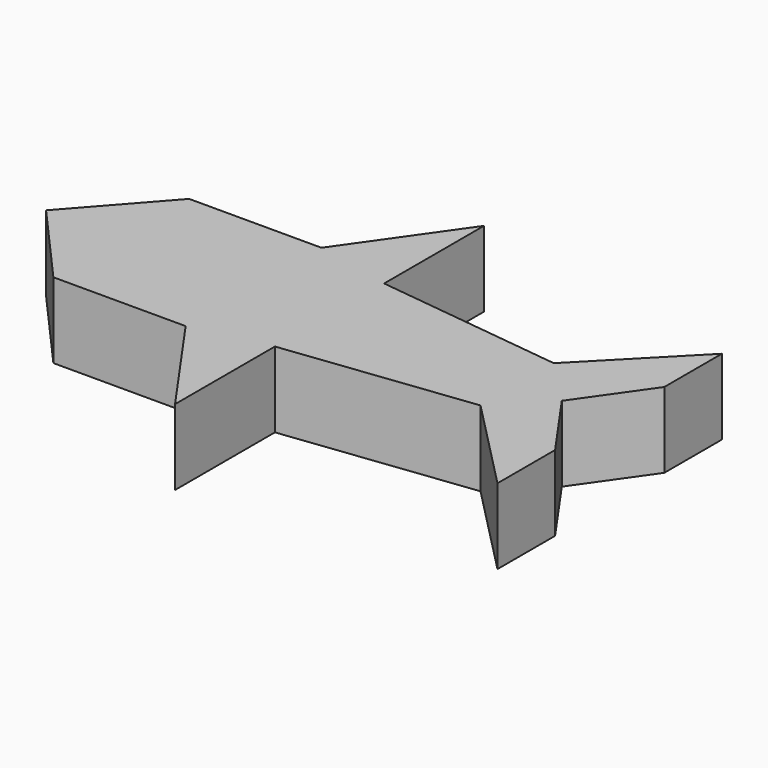
from build123d import *

# Parameters (mm, degrees)
F1_DEPTH = 10


with BuildPart() as f1:
    # F0 (on Top) → F1 (new body, symmetric)
    with BuildSketch(Plane.XY):
        Polygon((-55.105792, 22.454854), (-75, 0), (-55.105792, -22.454854), (-20.105792, -22.454854), (0, -51.103714), (0, -18.059211), (49.645247, -12.113672), (74.135095, -37.118619), (74.135095, -18.059211), (61.461127, 0), (74.135095, 18.059211), (74.135095, 37.118619), (49.645247, 12.113672), (0, 18.059211), (0, 51.103714), (-20.105792, 22.454854), align=None)
    extrude(amount=F1_DEPTH, both=True)


solid = f1.part
